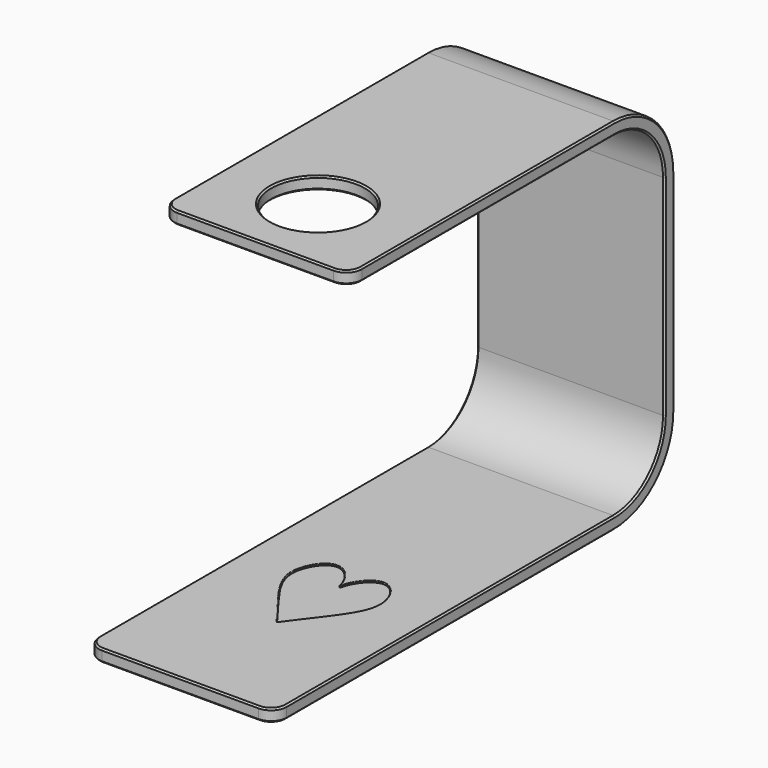
from build123d import *

# Parameters (mm, degrees)
F1_DEPTH = 60
F2_R     = 20
F3_R     = 24
F4_R     = 5
F5_R     = 15
F6_DEPTH = 4
F7_SIZE  = 0.5
F9_DEPTH = 0.5
F10_R    = 0.2


with BuildPart() as f1:
    # F0 (on Right) → F1 (new body)
    with BuildSketch(Plane.YZ):
        Polygon((0, 4), (0, 0), (160, 0), (160, 115), (30, 115), (30, 111), (156, 111), (156, 4), align=None)
    extrude(amount=F1_DEPTH)

    # F2
    f2_edges = [f1.edges().sort_by_distance(p)[0] for p in [
        (30, 156, 111),
        (30, 156, 4),
    ]]
    fillet(f2_edges, radius=F2_R)

    # F3
    f3_edges = [f1.edges().sort_by_distance(p)[0] for p in [
        (30, 160, 115),
        (30, 160, 0),
    ]]
    fillet(f3_edges, radius=F3_R)

    # F4
    f4_edges = [f1.edges().sort_by_distance(p)[0] for p in [
        (0, 30, 113),
        (60, 30, 113),
        (0, 0, 2),
        (60, 0, 2),
    ]]
    fillet(f4_edges, radius=F4_R)

    # F5 (on face) → F6 (cut, through all)
    with BuildSketch(Plane.XY.offset(115)):
        with Locations((30, 55)):
            Circle(F5_R)
    extrude(amount=-F6_DEPTH, mode=Mode.SUBTRACT)

    # F7
    f7_edges = [f1.edges().sort_by_distance(p)[0] for p in [
        (45, 55, 113),
        (15, 55, 115),
        (15, 55, 111),
        (60, 85.5, 115),
        (60, 35, 113),
        (60, 152.970563, 107.970563),
        (60, 85.5, 111),
        (60, 160, 57.5),
        (60, 150.142136, 105.142136),
        (60, 152.970563, 7.029437),
        (60, 156, 57.5),
        (60, 70.5, 0),
        (60, 150.142136, 9.857864),
        (60, 5, 2),
        (60, 70.5, 4),
    ]]
    chamfer(f7_edges, length=F7_SIZE)

    # F8 (on face) → F9 (cut)
    with BuildSketch(Plane.XY.offset(4)):
        with BuildLine():
            add(Edge.make_bspline(
                [(30, 38.6065185261), (21.9971418158, 49.8237009627), (11.5280524688, 59.8035321959), (22.1873581544, 76.5164287378), (29.4813248377, 67.3441461739), (30, 62.7757276542)],
                knots=[0, 0, 0, 0, 0.4382892649, 0.714767061, 1, 1, 1, 1], degree=3))
            add(Edge.make_bspline(
                [(30, 38.6065185261), (38.0028581842, 49.8237009627), (48.4719475312, 59.8035321959), (37.8126418456, 76.5164287378), (30.5186751623, 67.3441461739), (30, 62.7757276542)],
                knots=[0, 0, 0, 0, 0.4382892649, 0.714767061, 1, 1, 1, 1], degree=3))
        make_face()
    extrude(amount=-F9_DEPTH, mode=Mode.SUBTRACT)

    # F10
    f10_edges = [f1.edges().sort_by_distance(p)[0] for p in [
        (30, 62.775728, 3.75),
        (43.981873, 60.959585, 4),
        (16.018127, 60.959585, 4),
        (30, 38.606519, 3.75),
    ]]
    fillet(f10_edges, radius=F10_R)


solid = f1.part
